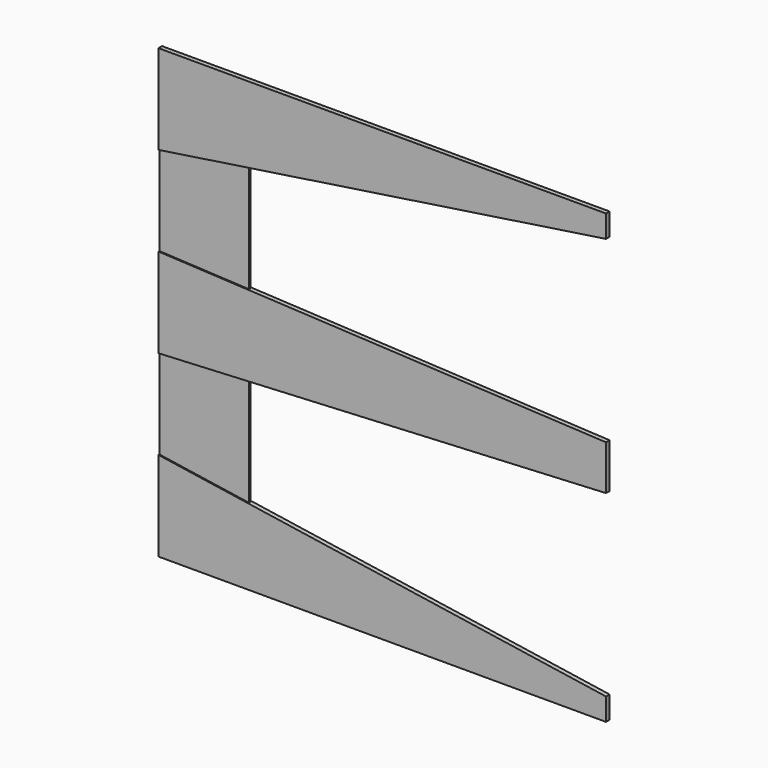
from build123d import *

# Parameters (mm, degrees)
F1_DEPTH = 0.5
F2_DEPTH = 0.25


with BuildPart() as f1:
    # F0 (on Front) → F1 (new body, symmetric)
    with BuildSketch(Plane.XZ):
        Polygon((-30, 33), (50, 45), (50, 50), (-50, 50), (-50, 30), align=None)
        Polygon((-30, -9), (50, -5), (50, 5), (-30, 9), (-50, 10), (-50, -10), align=None)
        Polygon((-50, -50), (50, -50), (50, -45), (-30, -33), (-50, -30), align=None)
    extrude(amount=F1_DEPTH, both=True)


with BuildPart() as f2:
    # F0 (on Front) → F2 (new body, symmetric)
    with BuildSketch(Plane.XZ):
        Polygon((-50, 30), (-50, 10), (-30, 9), (-30, 33), align=None)
        Polygon((-50, -10), (-50, -30), (-30, -33), (-30, -9), align=None)
    extrude(amount=F2_DEPTH, both=True)


solid = Compound([f1.part, f2.part])
